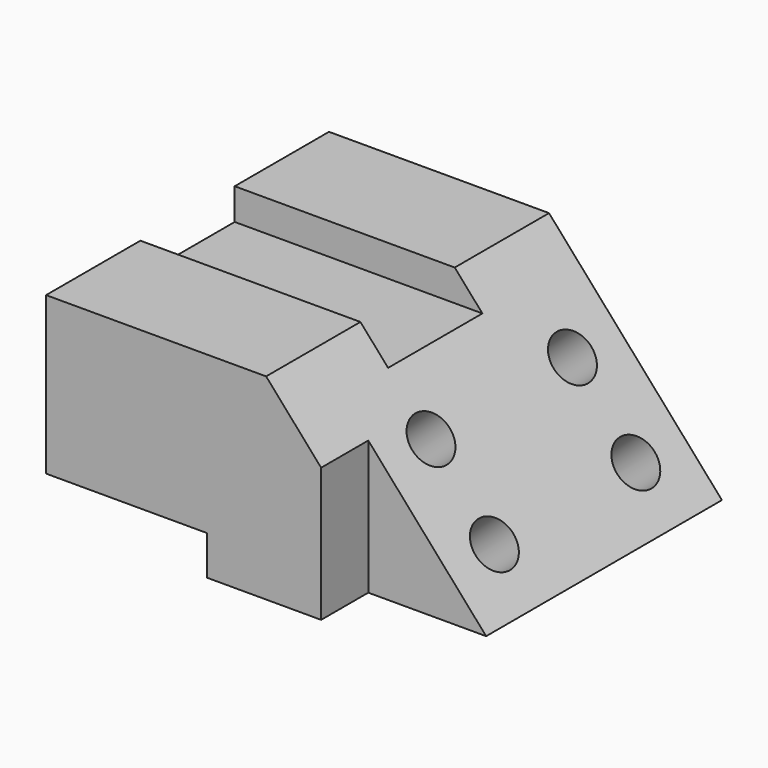
from build123d import *

# Parameters (mm, degrees)
F0_W      = 254
F0_H      = 127
F1_DEPTH  = 228.6
F3_DEPTH  = 1270
F5_DEPTH  = 38.1
F6_W      = 104.14
F6_H      = 25.4
F7_DEPTH  = 127
F8_R      = 15.24
F9_DEPTH  = 1270
F10_W     = 76.2
F10_H     = 20.32
F11_DEPTH = 1270


with BuildPart() as f1:
    # F0 (on Front) → F1 (new body)
    with BuildSketch(Plane.XZ):
        Rectangle(F0_W, F0_H)
    extrude(amount=-F1_DEPTH)

    # F2 (on face) → F3 (cut)
    with BuildSketch(Plane.XZ):
        Polygon((127, 63.5), (15.24, 63.5), (127, -63.5), align=None)
    extrude(amount=-F3_DEPTH, mode=Mode.SUBTRACT)

    # F4 (on face) → F5 (cut)
    with BuildSketch(Plane.XZ):
        Polygon((50.8, -63.5), (127, -63.5), (50.8, 23.0909090909), align=None)
    extrude(amount=-F5_DEPTH, mode=Mode.SUBTRACT)

    # F6 (on face) → F7 (cut)
    with BuildSketch(Plane.XZ):
        with Locations((-74.93, -50.8)):
            Rectangle(F6_W, F6_H)
    extrude(amount=-F7_DEPTH, mode=Mode.SUBTRACT)

    # F8 (on face) → F9 (cut)
    with BuildSketch(Plane(origin=(40.081154193, 0, 35.2714156898), x_dir=(0, 1, 0), z_dir=(0.7507135169, 0, 0.6606278949))):
        with Locations((76.2, -31.4652394879)):
            Circle(F8_R)
        with Locations((190.5, -31.4652394879)):
            Circle(F8_R)
        with Locations((190.5, -93.4700509759)):
            Circle(F8_R)
        with Locations((76.2, -93.4700509759)):
            Circle(F8_R)
    extrude(amount=-F9_DEPTH, mode=Mode.SUBTRACT)

    # F10 (on face) → F11 (cut)
    with BuildSketch(Plane(origin=(-127, 0, 0), x_dir=(0, -1, 0), z_dir=(-1, 0, 0))):
        with Locations((-114.3, 53.34)):
            Rectangle(F10_W, F10_H)
    extrude(amount=-F11_DEPTH, mode=Mode.SUBTRACT)


solid = f1.part
